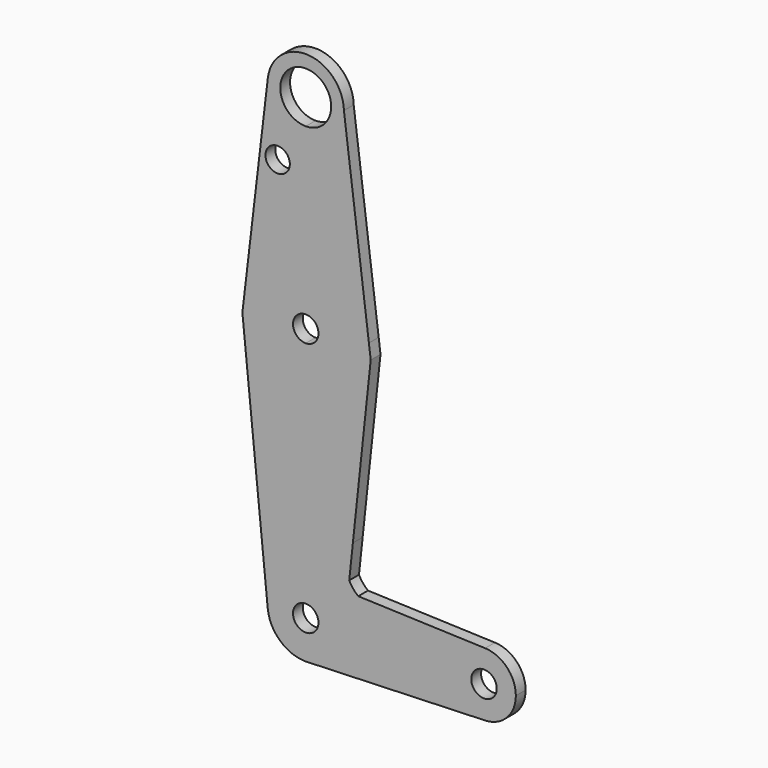
from build123d import *

# Parameters (mm, degrees)
F0_R     = 3.0371849449
F1_DEPTH = 3.048


with BuildPart() as f1:
    # F0 (on Front) → F1 (new body)
    with BuildSketch(Plane.XZ):
        with BuildLine():
            Line((-45.7488566027, 49.5692316997), (-45.7488566027, 74.9692316997))
            ThreePointArc((-45.7488566027, 74.9692316997), (-39.0136645119, 77.7590396089), (-36.2238566027, 84.4942316997))
            ThreePointArc((-36.2238566027, 84.4942316997), (-36.2243551798, 84.5916875621), (-36.2258508589, 84.689133222))
            ThreePointArc((-36.2258508589, 84.689133222), (-45.2653316732, 94.0069510083), (-55.2030191659, 85.6537295345))
            Line((-55.2030191659, 85.6537295345), (-60.7408166489, 38.9150323061))
            ThreePointArc((-60.7408166489, 38.9150323061), (-54.9449268333, 46.6343985191), (-45.7488566027, 49.5692316997))
        make_face()
        with Locations((-52.7529902756, 68.5437098145)):
            Circle(F0_R, mode=Mode.SUBTRACT)
        with BuildLine():
            ThreePointArc((-39.3988566027, 84.4942316997), (-41.2587285422, 80.0041036392), (-45.7488566027, 78.1442316997))
            ThreePointArc((-45.7488566027, 78.1442316997), (-50.2389846632, 88.9843597603), (-39.3988566027, 84.4942316997))
        make_face(mode=Mode.SUBTRACT)
        with BuildLine():
            ThreePointArc((-36.2238566027, 84.4942316997), (-39.0136645119, 77.7590396089), (-45.7488566027, 74.9692316997))
            Line((-45.7488566027, 74.9692316997), (-45.7488566027, 49.5692316997))
            ThreePointArc((-45.7488566027, 49.5692316997), (-35.2548384004, 45.6060412587), (-30.0004791117, 35.6952892707))
            Line((-30.0004791117, 35.6952892707), (-36.2258508589, 84.689133222))
            ThreePointArc((-36.2258508589, 84.689133222), (-36.2243551798, 84.5916875621), (-36.2238566027, 84.4942316997))
        make_face()
        with BuildLine():
            Line((-45.7488566027, 49.5692316997), (-45.7488566027, 74.9692316997))
            ThreePointArc((-45.7488566027, 74.9692316997), (-39.0136645119, 77.7590396089), (-36.2238566027, 84.4942316997))
            ThreePointArc((-36.2238566027, 84.4942316997), (-36.2243551798, 84.5916875621), (-36.2258508589, 84.689133222))
            ThreePointArc((-36.2258508589, 84.689133222), (-45.2653316732, 94.0069510083), (-55.2030191659, 85.6537295345))
            Line((-55.2030191659, 85.6537295345), (-60.7408166489, 38.9150323061))
            ThreePointArc((-60.7408166489, 38.9150323061), (-54.9449268333, 46.6343985191), (-45.7488566027, 49.5692316997))
        make_face()
        with Locations((-52.7529902756, 68.5437098145)):
            Circle(F0_R, mode=Mode.SUBTRACT)
        with BuildLine():
            ThreePointArc((-39.3988566027, 84.4942316997), (-41.2587285422, 80.0041036392), (-45.7488566027, 78.1442316997))
            ThreePointArc((-45.7488566027, 78.1442316997), (-50.2389846632, 88.9843597603), (-39.3988566027, 84.4942316997))
        make_face(mode=Mode.SUBTRACT)
        with BuildLine():
            Line((-60.7408166489, 38.9150323061), (-61.5457519178, 32.1214242091))
            ThreePointArc((-61.5457519178, 32.1214242091), (-56.4036045135, 21.9259704876), (-45.7488566027, 17.8192316997))
            Line((-45.7488566027, 17.8192316997), (-45.7488566027, 30.5192316997))
            ThreePointArc((-45.7488566027, 30.5192316997), (-48.9238566027, 33.6942316997), (-45.7488566027, 36.8692316997))
            Line((-45.7488566027, 36.8692316997), (-45.7488566027, 49.5692316997))
            ThreePointArc((-45.7488566027, 49.5692316997), (-54.9449268333, 46.6343985191), (-60.7408166489, 38.9150323061))
        make_face()
        with BuildLine():
            ThreePointArc((-30.0004791117, 35.6952892707), (-35.2548384004, 45.6060412587), (-45.7488566027, 49.5692316997))
            Line((-45.7488566027, 49.5692316997), (-45.7488566027, 36.8692316997))
            ThreePointArc((-45.7488566027, 36.8692316997), (-43.5037925724, 35.93929573), (-42.5738566027, 33.6942316997))
            ThreePointArc((-42.5738566027, 33.6942316997), (-43.5037925724, 31.4491676695), (-45.7488566027, 30.5192316997))
            Line((-45.7488566027, 30.5192316997), (-45.7488566027, 17.8192316997))
            ThreePointArc((-45.7488566027, 17.8192316997), (-34.5235364514, 22.4689115484), (-29.8738566027, 33.6942316997))
            ThreePointArc((-29.8738566027, 33.6942316997), (-29.9055438546, 34.6967615823), (-30.0004791117, 35.6952892707))
        make_face()
        with BuildLine():
            Line((-29.5463682115, 32.1214242091), (-30.0004791117, 35.6952892707))
            ThreePointArc((-30.0004791117, 35.6952892707), (-29.9055438546, 34.6967615823), (-29.8738566027, 33.6942316997))
            ThreePointArc((-29.8738566027, 33.6942316997), (-34.5235364514, 22.4689115484), (-45.7488566027, 17.8192316997))
            Line((-45.7488566027, 17.8192316997), (-45.7488566027, -20.2807683003))
            ThreePointArc((-45.7488566027, -20.2807683003), (-45.4099702732, -20.2867987628), (-45.0715130548, -20.3048825143))
            Line((-45.0715130548, -20.3048825143), (-35.19102832, -20.6566392031))
            Line((-35.19102832, -20.6566392031), (-34.9072404386, -18.003197806))
            ThreePointArc((-34.9072404386, -18.003197806), (-35.6951951763, -13.6149038804), (-33.9970143175, -9.4925043344))
            Line((-33.9970143175, -9.4925043344), (-29.5463682115, 32.1214242091))
        make_face()
        with BuildLine():
            ThreePointArc((-45.7488566027, 17.8192316997), (-56.4036045135, 21.9259704876), (-61.5457519178, 32.1214242091))
            Line((-61.5457519178, 32.1214242091), (-55.2261120446, -30.7582672704))
            ThreePointArc((-55.2261120446, -30.7582672704), (-52.8127853145, -23.4162036708), (-45.7488566027, -20.2807683003))
            Line((-45.7488566027, -20.2807683003), (-45.7488566027, 17.8192316997))
        make_face()
        with BuildLine():
            ThreePointArc((-36.2238566027, -29.8057683003), (-38.7782998712, -36.2970673885), (-45.0715130548, -39.3066540862))
            Line((-45.0715130548, -39.3066540862), (-1.0164513281, -37.7382429148))
            ThreePointArc((-1.0164513281, -37.7382429148), (-6.8107670874, -35.5174010842), (-9.2363566027, -29.8057683003))
            Line((-9.2363566027, -29.8057683003), (-36.1695356904, -29.8057683003))
            Line((-36.1695356904, -29.8057683003), (-36.2238566027, -29.8057683003))
        make_face()
        with BuildLine():
            Line((-32.6568694167, -20.7468581922), (-35.19102832, -20.6566392031))
            Line((-35.19102832, -20.6566392031), (-36.1695356904, -29.8057683003))
            Line((-36.1695356904, -29.8057683003), (-9.2363566027, -29.8057683003))
            ThreePointArc((-9.2363566027, -29.8057683003), (-6.8107670874, -24.0941355163), (-1.0164513281, -21.8732936857))
            Line((-1.0164513281, -21.8732936857), (-23.3826539654, -21.077030993))
            ThreePointArc((-23.3826539654, -21.077030993), (-28.0729350479, -22.4055296683), (-32.6568694167, -20.7468581922))
        make_face()
        with BuildLine():
            Line((-35.19102832, -20.6566392031), (-45.0715130548, -20.3048825143))
            ThreePointArc((-45.0715130548, -20.3048825143), (-38.7782998712, -23.314469212), (-36.2238566027, -29.8057683003))
            Line((-36.2238566027, -29.8057683003), (-36.1695356904, -29.8057683003))
            Line((-36.1695356904, -29.8057683003), (-35.19102832, -20.6566392031))
        make_face()
        with BuildLine():
            Line((-45.0715130548, -20.3048825143), (-45.7488566027, -20.2807683003))
            Line((-45.7488566027, -20.2807683003), (-45.7488566027, -26.6307683003))
            ThreePointArc((-45.7488566027, -26.6307683003), (-43.5037925724, -27.56070427), (-42.5738566027, -29.8057683003))
            Line((-42.5738566027, -29.8057683003), (-36.2238566027, -29.8057683003))
            ThreePointArc((-36.2238566027, -29.8057683003), (-38.7782998712, -23.314469212), (-45.0715130548, -20.3048825143))
        make_face()
        with BuildLine():
            ThreePointArc((-45.7488566027, -20.2807683003), (-52.8127853145, -23.4162036708), (-55.2261120446, -30.7582672704))
            ThreePointArc((-55.2261120446, -30.7582672704), (-52.1384212322, -36.8696970121), (-45.7488566027, -39.3307683003))
            Line((-45.7488566027, -39.3307683003), (-45.0715130548, -39.3066540862))
            ThreePointArc((-45.0715130548, -39.3066540862), (-38.7782998712, -36.2970673885), (-36.2238566027, -29.8057683003))
            Line((-36.2238566027, -29.8057683003), (-42.5738566027, -29.8057683003))
            ThreePointArc((-42.5738566027, -29.8057683003), (-47.993920633, -32.0508323305), (-45.7488566027, -26.6307683003))
            Line((-45.7488566027, -26.6307683003), (-45.7488566027, -20.2807683003))
        make_face()
        with BuildLine():
            ThreePointArc((-9.2363566027, -29.8057683003), (-6.8107670874, -35.5174010842), (-1.0164513281, -37.7382429148))
            ThreePointArc((-1.0164513281, -37.7382429148), (4.4127761812, -35.317678785), (6.6386433973, -29.8057683003))
            ThreePointArc((6.6386433973, -29.8057683003), (4.4127761812, -24.2938578155), (-1.0164513281, -21.8732936857))
            ThreePointArc((-1.0164513281, -21.8732936857), (-6.8107670874, -24.0941355163), (-9.2363566027, -29.8057683003))
        make_face()
        with BuildLine():
            ThreePointArc((1.8761433973, -29.8057683003), (-1.2988566027, -32.9807683003), (-4.4738566027, -29.8057683003))
            ThreePointArc((-4.4738566027, -29.8057683003), (-1.2988566027, -26.6307683003), (1.8761433973, -29.8057683003))
        make_face(mode=Mode.SUBTRACT)
        with BuildLine():
            ThreePointArc((-32.6568694167, -20.7468581922), (-33.9370858539, -19.5021855386), (-34.9072404386, -18.003197806))
            Line((-34.9072404386, -18.003197806), (-35.19102832, -20.6566392031))
            Line((-35.19102832, -20.6566392031), (-32.6568694167, -20.7468581922))
        make_face()
        with BuildLine():
            Line((-34.9072404386, -18.003197806), (-33.9970143175, -9.4925043344))
            ThreePointArc((-33.9970143175, -9.4925043344), (-35.6951951763, -13.6149038804), (-34.9072404386, -18.003197806))
        make_face()
        with BuildLine():
            Line((-23.3826539654, -21.077030993), (-32.6568694167, -20.7468581922))
            ThreePointArc((-32.6568694167, -20.7468581922), (-28.0729350479, -22.4055296683), (-23.3826539654, -21.077030993))
        make_face()
    extrude(amount=F1_DEPTH)


solid = f1.part
